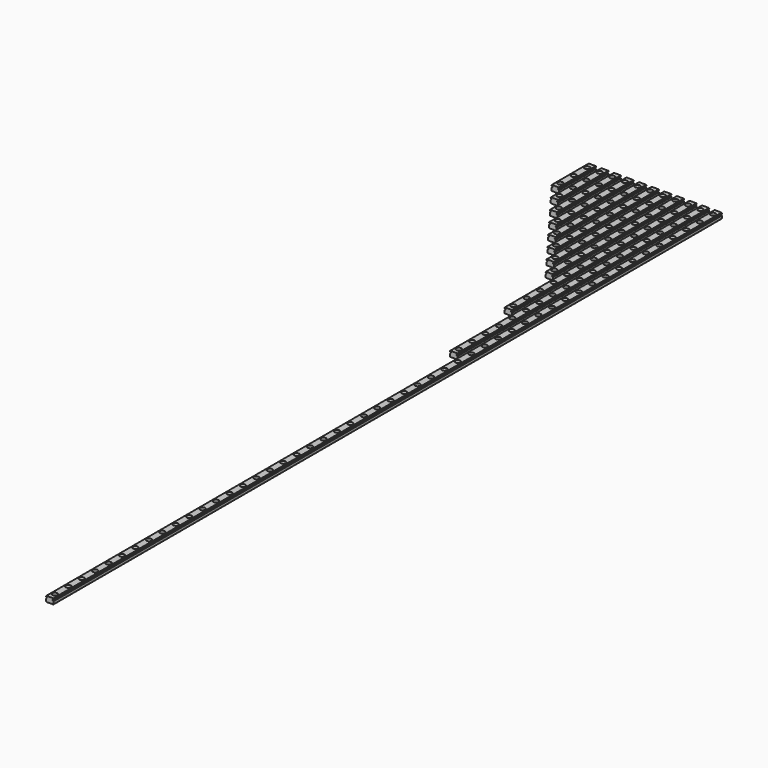
from build123d import *

# Parameters (mm, degrees)
F1_DEPTH           = 55
F2_DEPTH           = 75
F3_DEPTH           = 95
F4_DEPTH           = 115
F5_DEPTH           = 135
F6_DEPTH           = 155
F7_DEPTH           = 175
F8_DEPTH           = 195
F9_DEPTH           = 275
F10_DEPTH          = 375
F11_DEPTH          = 995
F13_D              = 3.5
F13_CBORE_D        = 6
F13_CBORE_DEPTH    = 3.5
F13_2_D            = 3.5
F13_2_CBORE_D      = 6
F13_2_CBORE_DEPTH  = 3.5
F13_3_D            = 3.5
F13_3_CBORE_D      = 6
F13_3_CBORE_DEPTH  = 3.5
F13_4_D            = 3.5
F13_4_CBORE_D      = 6
F13_4_CBORE_DEPTH  = 3.5
F13_5_D            = 3.5
F13_5_CBORE_D      = 6
F13_5_CBORE_DEPTH  = 3.5
F13_6_D            = 3.5
F13_6_CBORE_D      = 6
F13_6_CBORE_DEPTH  = 3.5
F13_7_D            = 3.5
F13_7_CBORE_D      = 6
F13_7_CBORE_DEPTH  = 3.5
F13_8_D            = 3.5
F13_8_CBORE_D      = 6
F13_8_CBORE_DEPTH  = 3.5
F13_9_D            = 3.5
F13_9_CBORE_D      = 6
F13_9_CBORE_DEPTH  = 3.5
F13_10_D           = 3.5
F13_10_CBORE_D     = 6
F13_10_CBORE_DEPTH = 3.5
F14_D              = 3.5
F14_CBORE_D        = 6
F14_CBORE_DEPTH    = 3.5


with BuildPart() as f1:
    # F0 (on Front) → F1 (new body)
    with BuildSketch(Plane.XZ):
        with BuildLine():
            Line((-4.146447, -3.25), (4.146447, -3.25))
            Line((4.146447, -3.25), (4.5, -2.896447))
            Line((4.5, -2.896447), (4.5, 0.281754))
            ThreePointArc((4.5, 0.281754), (4.10122, 0.489024), (3.833485, 0.85))
            Line((3.833485, 0.85), (3.3, 0.85))
            Line((3.3, 0.85), (3.3, 1.65))
            Line((3.3, 1.65), (3.833485, 1.65))
            ThreePointArc((3.833485, 1.65), (4.10122, 2.010976), (4.5, 2.218246))
            Line((4.5, 2.218246), (4.5, 2.896447))
            Line((4.5, 2.896447), (4.146447, 3.25))
            Line((4.146447, 3.25), (-4.146447, 3.25))
            Line((-4.146447, 3.25), (-4.5, 2.896447))
            Line((-4.5, 2.896447), (-4.5, 2.218246))
            ThreePointArc((-4.5, 2.218246), (-4.10122, 2.010976), (-3.833485, 1.65))
            Line((-3.833485, 1.65), (-3.3, 1.65))
            Line((-3.3, 1.65), (-3.3, 0.85))
            Line((-3.3, 0.85), (-3.833485, 0.85))
            ThreePointArc((-3.833485, 0.85), (-4.10122, 0.489024), (-4.5, 0.281754))
            Line((-4.5, 0.281754), (-4.5, -2.896447))
            Line((-4.5, -2.896447), (-4.146447, -3.25))
        make_face()
    extrude(amount=F1_DEPTH)

    # F13 (through all)
    with Locations(Plane.XY.offset(3.25)):
        with Locations((75, -7.5), (135, -47.5), (15, -47.5), (60, -7.5), (90, -27.5), (90, -47.5), (120, -27.5), (30, -7.5), (105, -7.5), (30, -47.5), (0, -47.5), (75, -47.5), (45, -7.5), (90, -7.5), (120, -47.5), (105, -27.5), (15, -7.5), (105, -47.5), (75, -27.5), (135, -27.5), (45, -47.5), (0, -7.5), (60, -47.5), (30, -27.5), (120, -7.5), (45, -27.5), (135, -7.5), (60, -27.5), (0, -27.5), (15, -27.5), (135, -67.5), (30, -67.5), (120, -67.5), (45, -67.5), (15, -67.5), (105, -67.5), (60, -67.5), (75, -67.5), (90, -67.5), (30, -87.5), (45, -87.5), (75, -87.5), (60, -87.5), (105, -87.5), (90, -87.5), (135, -87.5), (120, -87.5), (75, -107.5), (45, -107.5), (60, -107.5), (135, -107.5), (105, -107.5), (120, -107.5), (90, -107.5), (135, -127.5), (105, -127.5), (120, -127.5), (60, -127.5), (75, -127.5), (90, -127.5), (75, -147.5), (90, -147.5), (120, -147.5), (105, -147.5), (135, -147.5), (90, -167.5), (105, -167.5), (135, -167.5), (120, -167.5), (135, -187.5), (105, -187.5), (120, -187.5), (120, -227.5), (135, -267.5), (135, -227.5), (120, -267.5), (120, -207.5), (135, -207.5), (135, -247.5), (120, -247.5), (135, -307.5), (135, -347.5), (135, -367.5), (135, -327.5), (135, -287.5)):
            CounterBoreHole(F13_D / 2, F13_CBORE_D / 2, F13_CBORE_DEPTH)


with BuildPart() as f2:
    # F0 (on Front) → F2 (new body)
    with BuildSketch(Plane.XZ):
        with BuildLine():
            Line((10.5, 0.281754), (10.5, -2.896447))
            Line((10.5, -2.896447), (10.853553, -3.25))
            Line((10.853553, -3.25), (19.146447, -3.25))
            Line((19.146447, -3.25), (19.5, -2.896447))
            Line((19.5, -2.896447), (19.5, 0.281754))
            ThreePointArc((19.5, 0.281754), (19.10122, 0.489024), (18.833485, 0.85))
            Line((18.833485, 0.85), (18.3, 0.85))
            Line((18.3, 0.85), (18.3, 1.65))
            Line((18.3, 1.65), (18.833485, 1.65))
            ThreePointArc((18.833485, 1.65), (19.10122, 2.010976), (19.5, 2.218246))
            Line((19.5, 2.218246), (19.5, 2.896447))
            Line((19.5, 2.896447), (19.146447, 3.25))
            Line((19.146447, 3.25), (10.853553, 3.25))
            Line((10.853553, 3.25), (10.5, 2.896447))
            Line((10.5, 2.896447), (10.5, 2.218246))
            ThreePointArc((10.5, 2.218246), (10.89878, 2.010976), (11.166515, 1.65))
            Line((11.166515, 1.65), (11.7, 1.65))
            Line((11.7, 1.65), (11.7, 0.85))
            Line((11.7, 0.85), (11.166515, 0.85))
            ThreePointArc((11.166515, 0.85), (10.89878, 0.489024), (10.5, 0.281754))
        make_face()
    extrude(amount=F2_DEPTH)

    # F13#2 (through all)
    with Locations(Plane.XY.offset(3.25)):
        with Locations((75, -7.5), (135, -47.5), (15, -47.5), (60, -7.5), (90, -27.5), (90, -47.5), (120, -27.5), (30, -7.5), (105, -7.5), (30, -47.5), (0, -47.5), (75, -47.5), (45, -7.5), (90, -7.5), (120, -47.5), (105, -27.5), (15, -7.5), (105, -47.5), (75, -27.5), (135, -27.5), (45, -47.5), (0, -7.5), (60, -47.5), (30, -27.5), (120, -7.5), (45, -27.5), (135, -7.5), (60, -27.5), (0, -27.5), (15, -27.5), (135, -67.5), (30, -67.5), (120, -67.5), (45, -67.5), (15, -67.5), (105, -67.5), (60, -67.5), (75, -67.5), (90, -67.5), (30, -87.5), (45, -87.5), (75, -87.5), (60, -87.5), (105, -87.5), (90, -87.5), (135, -87.5), (120, -87.5), (75, -107.5), (45, -107.5), (60, -107.5), (135, -107.5), (105, -107.5), (120, -107.5), (90, -107.5), (135, -127.5), (105, -127.5), (120, -127.5), (60, -127.5), (75, -127.5), (90, -127.5), (75, -147.5), (90, -147.5), (120, -147.5), (105, -147.5), (135, -147.5), (90, -167.5), (105, -167.5), (135, -167.5), (120, -167.5), (135, -187.5), (105, -187.5), (120, -187.5), (120, -227.5), (135, -267.5), (135, -227.5), (120, -267.5), (120, -207.5), (135, -207.5), (135, -247.5), (120, -247.5), (135, -307.5), (135, -347.5), (135, -367.5), (135, -327.5), (135, -287.5)):
            CounterBoreHole(F13_2_D / 2, F13_2_CBORE_D / 2, F13_2_CBORE_DEPTH)


with BuildPart() as f3:
    # F0 (on Front) → F3 (new body)
    with BuildSketch(Plane.XZ):
        with BuildLine():
            Line((25.5, 0.281754), (25.5, -2.896447))
            Line((25.5, -2.896447), (25.853553, -3.25))
            Line((25.853553, -3.25), (34.146447, -3.25))
            Line((34.146447, -3.25), (34.5, -2.896447))
            Line((34.5, -2.896447), (34.5, 0.281754))
            ThreePointArc((34.5, 0.281754), (34.10122, 0.489024), (33.833485, 0.85))
            Line((33.833485, 0.85), (33.3, 0.85))
            Line((33.3, 0.85), (33.3, 1.65))
            Line((33.3, 1.65), (33.833485, 1.65))
            ThreePointArc((33.833485, 1.65), (34.10122, 2.010976), (34.5, 2.218246))
            Line((34.5, 2.218246), (34.5, 2.896447))
            Line((34.5, 2.896447), (34.146447, 3.25))
            Line((34.146447, 3.25), (25.853553, 3.25))
            Line((25.853553, 3.25), (25.5, 2.896447))
            Line((25.5, 2.896447), (25.5, 2.218246))
            ThreePointArc((25.5, 2.218246), (25.89878, 2.010976), (26.166515, 1.65))
            Line((26.166515, 1.65), (26.7, 1.65))
            Line((26.7, 1.65), (26.7, 0.85))
            Line((26.7, 0.85), (26.166515, 0.85))
            ThreePointArc((26.166515, 0.85), (25.89878, 0.489024), (25.5, 0.281754))
        make_face()
    extrude(amount=F3_DEPTH)

    # F13#3 (through all)
    with Locations(Plane.XY.offset(3.25)):
        with Locations((75, -7.5), (135, -47.5), (15, -47.5), (60, -7.5), (90, -27.5), (90, -47.5), (120, -27.5), (30, -7.5), (105, -7.5), (30, -47.5), (0, -47.5), (75, -47.5), (45, -7.5), (90, -7.5), (120, -47.5), (105, -27.5), (15, -7.5), (105, -47.5), (75, -27.5), (135, -27.5), (45, -47.5), (0, -7.5), (60, -47.5), (30, -27.5), (120, -7.5), (45, -27.5), (135, -7.5), (60, -27.5), (0, -27.5), (15, -27.5), (135, -67.5), (30, -67.5), (120, -67.5), (45, -67.5), (15, -67.5), (105, -67.5), (60, -67.5), (75, -67.5), (90, -67.5), (30, -87.5), (45, -87.5), (75, -87.5), (60, -87.5), (105, -87.5), (90, -87.5), (135, -87.5), (120, -87.5), (75, -107.5), (45, -107.5), (60, -107.5), (135, -107.5), (105, -107.5), (120, -107.5), (90, -107.5), (135, -127.5), (105, -127.5), (120, -127.5), (60, -127.5), (75, -127.5), (90, -127.5), (75, -147.5), (90, -147.5), (120, -147.5), (105, -147.5), (135, -147.5), (90, -167.5), (105, -167.5), (135, -167.5), (120, -167.5), (135, -187.5), (105, -187.5), (120, -187.5), (120, -227.5), (135, -267.5), (135, -227.5), (120, -267.5), (120, -207.5), (135, -207.5), (135, -247.5), (120, -247.5), (135, -307.5), (135, -347.5), (135, -367.5), (135, -327.5), (135, -287.5)):
            CounterBoreHole(F13_3_D / 2, F13_3_CBORE_D / 2, F13_3_CBORE_DEPTH)


with BuildPart() as f4:
    # F0 (on Front) → F4 (new body)
    with BuildSketch(Plane.XZ):
        with BuildLine():
            Line((40.5, 0.281754), (40.5, -2.896447))
            Line((40.5, -2.896447), (40.853553, -3.25))
            Line((40.853553, -3.25), (49.146447, -3.25))
            Line((49.146447, -3.25), (49.5, -2.896447))
            Line((49.5, -2.896447), (49.5, 0.281754))
            ThreePointArc((49.5, 0.281754), (49.10122, 0.489024), (48.833485, 0.85))
            Line((48.833485, 0.85), (48.3, 0.85))
            Line((48.3, 0.85), (48.3, 1.65))
            Line((48.3, 1.65), (48.833485, 1.65))
            ThreePointArc((48.833485, 1.65), (49.10122, 2.010976), (49.5, 2.218246))
            Line((49.5, 2.218246), (49.5, 2.896447))
            Line((49.5, 2.896447), (49.146447, 3.25))
            Line((49.146447, 3.25), (40.853553, 3.25))
            Line((40.853553, 3.25), (40.5, 2.896447))
            Line((40.5, 2.896447), (40.5, 2.218246))
            ThreePointArc((40.5, 2.218246), (40.89878, 2.010976), (41.166515, 1.65))
            Line((41.166515, 1.65), (41.7, 1.65))
            Line((41.7, 1.65), (41.7, 0.85))
            Line((41.7, 0.85), (41.166515, 0.85))
            ThreePointArc((41.166515, 0.85), (40.89878, 0.489024), (40.5, 0.281754))
        make_face()
    extrude(amount=F4_DEPTH)

    # F13#4 (through all)
    with Locations(Plane.XY.offset(3.25)):
        with Locations((75, -7.5), (135, -47.5), (15, -47.5), (60, -7.5), (90, -27.5), (90, -47.5), (120, -27.5), (30, -7.5), (105, -7.5), (30, -47.5), (0, -47.5), (75, -47.5), (45, -7.5), (90, -7.5), (120, -47.5), (105, -27.5), (15, -7.5), (105, -47.5), (75, -27.5), (135, -27.5), (45, -47.5), (0, -7.5), (60, -47.5), (30, -27.5), (120, -7.5), (45, -27.5), (135, -7.5), (60, -27.5), (0, -27.5), (15, -27.5), (135, -67.5), (30, -67.5), (120, -67.5), (45, -67.5), (15, -67.5), (105, -67.5), (60, -67.5), (75, -67.5), (90, -67.5), (30, -87.5), (45, -87.5), (75, -87.5), (60, -87.5), (105, -87.5), (90, -87.5), (135, -87.5), (120, -87.5), (75, -107.5), (45, -107.5), (60, -107.5), (135, -107.5), (105, -107.5), (120, -107.5), (90, -107.5), (135, -127.5), (105, -127.5), (120, -127.5), (60, -127.5), (75, -127.5), (90, -127.5), (75, -147.5), (90, -147.5), (120, -147.5), (105, -147.5), (135, -147.5), (90, -167.5), (105, -167.5), (135, -167.5), (120, -167.5), (135, -187.5), (105, -187.5), (120, -187.5), (120, -227.5), (135, -267.5), (135, -227.5), (120, -267.5), (120, -207.5), (135, -207.5), (135, -247.5), (120, -247.5), (135, -307.5), (135, -347.5), (135, -367.5), (135, -327.5), (135, -287.5)):
            CounterBoreHole(F13_4_D / 2, F13_4_CBORE_D / 2, F13_4_CBORE_DEPTH)


with BuildPart() as f5:
    # F0 (on Front) → F5 (new body)
    with BuildSketch(Plane.XZ):
        with BuildLine():
            Line((55.5, 0.281754), (55.5, -2.896447))
            Line((55.5, -2.896447), (55.853553, -3.25))
            Line((55.853553, -3.25), (64.146447, -3.25))
            Line((64.146447, -3.25), (64.5, -2.896447))
            Line((64.5, -2.896447), (64.5, 0.281754))
            ThreePointArc((64.5, 0.281754), (64.10122, 0.489024), (63.833485, 0.85))
            Line((63.833485, 0.85), (63.3, 0.85))
            Line((63.3, 0.85), (63.3, 1.65))
            Line((63.3, 1.65), (63.833485, 1.65))
            ThreePointArc((63.833485, 1.65), (64.10122, 2.010976), (64.5, 2.218246))
            Line((64.5, 2.218246), (64.5, 2.896447))
            Line((64.5, 2.896447), (64.146447, 3.25))
            Line((64.146447, 3.25), (55.853553, 3.25))
            Line((55.853553, 3.25), (55.5, 2.896447))
            Line((55.5, 2.896447), (55.5, 2.218246))
            ThreePointArc((55.5, 2.218246), (55.89878, 2.010976), (56.166515, 1.65))
            Line((56.166515, 1.65), (56.7, 1.65))
            Line((56.7, 1.65), (56.7, 0.85))
            Line((56.7, 0.85), (56.166515, 0.85))
            ThreePointArc((56.166515, 0.85), (55.89878, 0.489024), (55.5, 0.281754))
        make_face()
    extrude(amount=F5_DEPTH)

    # F13#5 (through all)
    with Locations(Plane.XY.offset(3.25)):
        with Locations((75, -7.5), (135, -47.5), (15, -47.5), (60, -7.5), (90, -27.5), (90, -47.5), (120, -27.5), (30, -7.5), (105, -7.5), (30, -47.5), (0, -47.5), (75, -47.5), (45, -7.5), (90, -7.5), (120, -47.5), (105, -27.5), (15, -7.5), (105, -47.5), (75, -27.5), (135, -27.5), (45, -47.5), (0, -7.5), (60, -47.5), (30, -27.5), (120, -7.5), (45, -27.5), (135, -7.5), (60, -27.5), (0, -27.5), (15, -27.5), (135, -67.5), (30, -67.5), (120, -67.5), (45, -67.5), (15, -67.5), (105, -67.5), (60, -67.5), (75, -67.5), (90, -67.5), (30, -87.5), (45, -87.5), (75, -87.5), (60, -87.5), (105, -87.5), (90, -87.5), (135, -87.5), (120, -87.5), (75, -107.5), (45, -107.5), (60, -107.5), (135, -107.5), (105, -107.5), (120, -107.5), (90, -107.5), (135, -127.5), (105, -127.5), (120, -127.5), (60, -127.5), (75, -127.5), (90, -127.5), (75, -147.5), (90, -147.5), (120, -147.5), (105, -147.5), (135, -147.5), (90, -167.5), (105, -167.5), (135, -167.5), (120, -167.5), (135, -187.5), (105, -187.5), (120, -187.5), (120, -227.5), (135, -267.5), (135, -227.5), (120, -267.5), (120, -207.5), (135, -207.5), (135, -247.5), (120, -247.5), (135, -307.5), (135, -347.5), (135, -367.5), (135, -327.5), (135, -287.5)):
            CounterBoreHole(F13_5_D / 2, F13_5_CBORE_D / 2, F13_5_CBORE_DEPTH)


with BuildPart() as f6:
    # F0 (on Front) → F6 (new body)
    with BuildSketch(Plane.XZ):
        with BuildLine():
            Line((70.5, 0.281754), (70.5, -2.896447))
            Line((70.5, -2.896447), (70.853553, -3.25))
            Line((70.853553, -3.25), (79.146447, -3.25))
            Line((79.146447, -3.25), (79.5, -2.896447))
            Line((79.5, -2.896447), (79.5, 0.281754))
            ThreePointArc((79.5, 0.281754), (79.10122, 0.489024), (78.833485, 0.85))
            Line((78.833485, 0.85), (78.3, 0.85))
            Line((78.3, 0.85), (78.3, 1.65))
            Line((78.3, 1.65), (78.833485, 1.65))
            ThreePointArc((78.833485, 1.65), (79.10122, 2.010976), (79.5, 2.218246))
            Line((79.5, 2.218246), (79.5, 2.896447))
            Line((79.5, 2.896447), (79.146447, 3.25))
            Line((79.146447, 3.25), (70.853553, 3.25))
            Line((70.853553, 3.25), (70.5, 2.896447))
            Line((70.5, 2.896447), (70.5, 2.218246))
            ThreePointArc((70.5, 2.218246), (70.89878, 2.010976), (71.166515, 1.65))
            Line((71.166515, 1.65), (71.7, 1.65))
            Line((71.7, 1.65), (71.7, 0.85))
            Line((71.7, 0.85), (71.166515, 0.85))
            ThreePointArc((71.166515, 0.85), (70.89878, 0.489024), (70.5, 0.281754))
        make_face()
    extrude(amount=F6_DEPTH)

    # F13#6 (through all)
    with Locations(Plane.XY.offset(3.25)):
        with Locations((75, -7.5), (135, -47.5), (15, -47.5), (60, -7.5), (90, -27.5), (90, -47.5), (120, -27.5), (30, -7.5), (105, -7.5), (30, -47.5), (0, -47.5), (75, -47.5), (45, -7.5), (90, -7.5), (120, -47.5), (105, -27.5), (15, -7.5), (105, -47.5), (75, -27.5), (135, -27.5), (45, -47.5), (0, -7.5), (60, -47.5), (30, -27.5), (120, -7.5), (45, -27.5), (135, -7.5), (60, -27.5), (0, -27.5), (15, -27.5), (135, -67.5), (30, -67.5), (120, -67.5), (45, -67.5), (15, -67.5), (105, -67.5), (60, -67.5), (75, -67.5), (90, -67.5), (30, -87.5), (45, -87.5), (75, -87.5), (60, -87.5), (105, -87.5), (90, -87.5), (135, -87.5), (120, -87.5), (75, -107.5), (45, -107.5), (60, -107.5), (135, -107.5), (105, -107.5), (120, -107.5), (90, -107.5), (135, -127.5), (105, -127.5), (120, -127.5), (60, -127.5), (75, -127.5), (90, -127.5), (75, -147.5), (90, -147.5), (120, -147.5), (105, -147.5), (135, -147.5), (90, -167.5), (105, -167.5), (135, -167.5), (120, -167.5), (135, -187.5), (105, -187.5), (120, -187.5), (120, -227.5), (135, -267.5), (135, -227.5), (120, -267.5), (120, -207.5), (135, -207.5), (135, -247.5), (120, -247.5), (135, -307.5), (135, -347.5), (135, -367.5), (135, -327.5), (135, -287.5)):
            CounterBoreHole(F13_6_D / 2, F13_6_CBORE_D / 2, F13_6_CBORE_DEPTH)


with BuildPart() as f7:
    # F0 (on Front) → F7 (new body)
    with BuildSketch(Plane.XZ):
        with BuildLine():
            Line((85.5, 0.281754), (85.5, -2.896447))
            Line((85.5, -2.896447), (85.853553, -3.25))
            Line((85.853553, -3.25), (94.146447, -3.25))
            Line((94.146447, -3.25), (94.5, -2.896447))
            Line((94.5, -2.896447), (94.5, 0.281754))
            ThreePointArc((94.5, 0.281754), (94.10122, 0.489024), (93.833485, 0.85))
            Line((93.833485, 0.85), (93.3, 0.85))
            Line((93.3, 0.85), (93.3, 1.65))
            Line((93.3, 1.65), (93.833485, 1.65))
            ThreePointArc((93.833485, 1.65), (94.10122, 2.010976), (94.5, 2.218246))
            Line((94.5, 2.218246), (94.5, 2.896447))
            Line((94.5, 2.896447), (94.146447, 3.25))
            Line((94.146447, 3.25), (85.853553, 3.25))
            Line((85.853553, 3.25), (85.5, 2.896447))
            Line((85.5, 2.896447), (85.5, 2.218246))
            ThreePointArc((85.5, 2.218246), (85.89878, 2.010976), (86.166515, 1.65))
            Line((86.166515, 1.65), (86.7, 1.65))
            Line((86.7, 1.65), (86.7, 0.85))
            Line((86.7, 0.85), (86.166515, 0.85))
            ThreePointArc((86.166515, 0.85), (85.89878, 0.489024), (85.5, 0.281754))
        make_face()
    extrude(amount=F7_DEPTH)

    # F13#7 (through all)
    with Locations(Plane.XY.offset(3.25)):
        with Locations((75, -7.5), (135, -47.5), (15, -47.5), (60, -7.5), (90, -27.5), (90, -47.5), (120, -27.5), (30, -7.5), (105, -7.5), (30, -47.5), (0, -47.5), (75, -47.5), (45, -7.5), (90, -7.5), (120, -47.5), (105, -27.5), (15, -7.5), (105, -47.5), (75, -27.5), (135, -27.5), (45, -47.5), (0, -7.5), (60, -47.5), (30, -27.5), (120, -7.5), (45, -27.5), (135, -7.5), (60, -27.5), (0, -27.5), (15, -27.5), (135, -67.5), (30, -67.5), (120, -67.5), (45, -67.5), (15, -67.5), (105, -67.5), (60, -67.5), (75, -67.5), (90, -67.5), (30, -87.5), (45, -87.5), (75, -87.5), (60, -87.5), (105, -87.5), (90, -87.5), (135, -87.5), (120, -87.5), (75, -107.5), (45, -107.5), (60, -107.5), (135, -107.5), (105, -107.5), (120, -107.5), (90, -107.5), (135, -127.5), (105, -127.5), (120, -127.5), (60, -127.5), (75, -127.5), (90, -127.5), (75, -147.5), (90, -147.5), (120, -147.5), (105, -147.5), (135, -147.5), (90, -167.5), (105, -167.5), (135, -167.5), (120, -167.5), (135, -187.5), (105, -187.5), (120, -187.5), (120, -227.5), (135, -267.5), (135, -227.5), (120, -267.5), (120, -207.5), (135, -207.5), (135, -247.5), (120, -247.5), (135, -307.5), (135, -347.5), (135, -367.5), (135, -327.5), (135, -287.5)):
            CounterBoreHole(F13_7_D / 2, F13_7_CBORE_D / 2, F13_7_CBORE_DEPTH)


with BuildPart() as f8:
    # F0 (on Front) → F8 (new body)
    with BuildSketch(Plane.XZ):
        with BuildLine():
            Line((100.5, 0.281754), (100.5, -2.896447))
            Line((100.5, -2.896447), (100.853553, -3.25))
            Line((100.853553, -3.25), (109.146447, -3.25))
            Line((109.146447, -3.25), (109.5, -2.896447))
            Line((109.5, -2.896447), (109.5, 0.281754))
            ThreePointArc((109.5, 0.281754), (109.10122, 0.489024), (108.833485, 0.85))
            Line((108.833485, 0.85), (108.3, 0.85))
            Line((108.3, 0.85), (108.3, 1.65))
            Line((108.3, 1.65), (108.833485, 1.65))
            ThreePointArc((108.833485, 1.65), (109.10122, 2.010976), (109.5, 2.218246))
            Line((109.5, 2.218246), (109.5, 2.896447))
            Line((109.5, 2.896447), (109.146447, 3.25))
            Line((109.146447, 3.25), (100.853553, 3.25))
            Line((100.853553, 3.25), (100.5, 2.896447))
            Line((100.5, 2.896447), (100.5, 2.218246))
            ThreePointArc((100.5, 2.218246), (100.89878, 2.010976), (101.166515, 1.65))
            Line((101.166515, 1.65), (101.7, 1.65))
            Line((101.7, 1.65), (101.7, 0.85))
            Line((101.7, 0.85), (101.166515, 0.85))
            ThreePointArc((101.166515, 0.85), (100.89878, 0.489024), (100.5, 0.281754))
        make_face()
    extrude(amount=F8_DEPTH)

    # F13#8 (through all)
    with Locations(Plane.XY.offset(3.25)):
        with Locations((75, -7.5), (135, -47.5), (15, -47.5), (60, -7.5), (90, -27.5), (90, -47.5), (120, -27.5), (30, -7.5), (105, -7.5), (30, -47.5), (0, -47.5), (75, -47.5), (45, -7.5), (90, -7.5), (120, -47.5), (105, -27.5), (15, -7.5), (105, -47.5), (75, -27.5), (135, -27.5), (45, -47.5), (0, -7.5), (60, -47.5), (30, -27.5), (120, -7.5), (45, -27.5), (135, -7.5), (60, -27.5), (0, -27.5), (15, -27.5), (135, -67.5), (30, -67.5), (120, -67.5), (45, -67.5), (15, -67.5), (105, -67.5), (60, -67.5), (75, -67.5), (90, -67.5), (30, -87.5), (45, -87.5), (75, -87.5), (60, -87.5), (105, -87.5), (90, -87.5), (135, -87.5), (120, -87.5), (75, -107.5), (45, -107.5), (60, -107.5), (135, -107.5), (105, -107.5), (120, -107.5), (90, -107.5), (135, -127.5), (105, -127.5), (120, -127.5), (60, -127.5), (75, -127.5), (90, -127.5), (75, -147.5), (90, -147.5), (120, -147.5), (105, -147.5), (135, -147.5), (90, -167.5), (105, -167.5), (135, -167.5), (120, -167.5), (135, -187.5), (105, -187.5), (120, -187.5), (120, -227.5), (135, -267.5), (135, -227.5), (120, -267.5), (120, -207.5), (135, -207.5), (135, -247.5), (120, -247.5), (135, -307.5), (135, -347.5), (135, -367.5), (135, -327.5), (135, -287.5)):
            CounterBoreHole(F13_8_D / 2, F13_8_CBORE_D / 2, F13_8_CBORE_DEPTH)


with BuildPart() as f9:
    # F0 (on Front) → F9 (new body)
    with BuildSketch(Plane.XZ):
        with BuildLine():
            Line((115.5, 0.281754), (115.5, -2.896447))
            Line((115.5, -2.896447), (115.853553, -3.25))
            Line((115.853553, -3.25), (124.146447, -3.25))
            Line((124.146447, -3.25), (124.5, -2.896447))
            Line((124.5, -2.896447), (124.5, 0.281754))
            ThreePointArc((124.5, 0.281754), (124.10122, 0.489024), (123.833485, 0.85))
            Line((123.833485, 0.85), (123.3, 0.85))
            Line((123.3, 0.85), (123.3, 1.65))
            Line((123.3, 1.65), (123.833485, 1.65))
            ThreePointArc((123.833485, 1.65), (124.10122, 2.010976), (124.5, 2.218246))
            Line((124.5, 2.218246), (124.5, 2.896447))
            Line((124.5, 2.896447), (124.146447, 3.25))
            Line((124.146447, 3.25), (115.853553, 3.25))
            Line((115.853553, 3.25), (115.5, 2.896447))
            Line((115.5, 2.896447), (115.5, 2.218246))
            ThreePointArc((115.5, 2.218246), (115.89878, 2.010976), (116.166515, 1.65))
            Line((116.166515, 1.65), (116.7, 1.65))
            Line((116.7, 1.65), (116.7, 0.85))
            Line((116.7, 0.85), (116.166515, 0.85))
            ThreePointArc((116.166515, 0.85), (115.89878, 0.489024), (115.5, 0.281754))
        make_face()
    extrude(amount=F9_DEPTH)

    # F13#9 (through all)
    with Locations(Plane.XY.offset(3.25)):
        with Locations((75, -7.5), (135, -47.5), (15, -47.5), (60, -7.5), (90, -27.5), (90, -47.5), (120, -27.5), (30, -7.5), (105, -7.5), (30, -47.5), (0, -47.5), (75, -47.5), (45, -7.5), (90, -7.5), (120, -47.5), (105, -27.5), (15, -7.5), (105, -47.5), (75, -27.5), (135, -27.5), (45, -47.5), (0, -7.5), (60, -47.5), (30, -27.5), (120, -7.5), (45, -27.5), (135, -7.5), (60, -27.5), (0, -27.5), (15, -27.5), (135, -67.5), (30, -67.5), (120, -67.5), (45, -67.5), (15, -67.5), (105, -67.5), (60, -67.5), (75, -67.5), (90, -67.5), (30, -87.5), (45, -87.5), (75, -87.5), (60, -87.5), (105, -87.5), (90, -87.5), (135, -87.5), (120, -87.5), (75, -107.5), (45, -107.5), (60, -107.5), (135, -107.5), (105, -107.5), (120, -107.5), (90, -107.5), (135, -127.5), (105, -127.5), (120, -127.5), (60, -127.5), (75, -127.5), (90, -127.5), (75, -147.5), (90, -147.5), (120, -147.5), (105, -147.5), (135, -147.5), (90, -167.5), (105, -167.5), (135, -167.5), (120, -167.5), (135, -187.5), (105, -187.5), (120, -187.5), (120, -227.5), (135, -267.5), (135, -227.5), (120, -267.5), (120, -207.5), (135, -207.5), (135, -247.5), (120, -247.5), (135, -307.5), (135, -347.5), (135, -367.5), (135, -327.5), (135, -287.5)):
            CounterBoreHole(F13_9_D / 2, F13_9_CBORE_D / 2, F13_9_CBORE_DEPTH)


with BuildPart() as f10:
    # F0 (on Front) → F10 (new body)
    with BuildSketch(Plane.XZ):
        with BuildLine():
            Line((130.5, 0.281754), (130.5, -2.896447))
            Line((130.5, -2.896447), (130.853553, -3.25))
            Line((130.853553, -3.25), (139.146447, -3.25))
            Line((139.146447, -3.25), (139.5, -2.896447))
            Line((139.5, -2.896447), (139.5, 0.281754))
            ThreePointArc((139.5, 0.281754), (139.10122, 0.489024), (138.833485, 0.85))
            Line((138.833485, 0.85), (138.3, 0.85))
            Line((138.3, 0.85), (138.3, 1.65))
            Line((138.3, 1.65), (138.833485, 1.65))
            ThreePointArc((138.833485, 1.65), (139.10122, 2.010976), (139.5, 2.218246))
            Line((139.5, 2.218246), (139.5, 2.896447))
            Line((139.5, 2.896447), (139.146447, 3.25))
            Line((139.146447, 3.25), (130.853553, 3.25))
            Line((130.853553, 3.25), (130.5, 2.896447))
            Line((130.5, 2.896447), (130.5, 2.218246))
            ThreePointArc((130.5, 2.218246), (130.89878, 2.010976), (131.166515, 1.65))
            Line((131.166515, 1.65), (131.7, 1.65))
            Line((131.7, 1.65), (131.7, 0.85))
            Line((131.7, 0.85), (131.166515, 0.85))
            ThreePointArc((131.166515, 0.85), (130.89878, 0.489024), (130.5, 0.281754))
        make_face()
    extrude(amount=F10_DEPTH)

    # F13#10 (through all)
    with Locations(Plane.XY.offset(3.25)):
        with Locations((75, -7.5), (135, -47.5), (15, -47.5), (60, -7.5), (90, -27.5), (90, -47.5), (120, -27.5), (30, -7.5), (105, -7.5), (30, -47.5), (0, -47.5), (75, -47.5), (45, -7.5), (90, -7.5), (120, -47.5), (105, -27.5), (15, -7.5), (105, -47.5), (75, -27.5), (135, -27.5), (45, -47.5), (0, -7.5), (60, -47.5), (30, -27.5), (120, -7.5), (45, -27.5), (135, -7.5), (60, -27.5), (0, -27.5), (15, -27.5), (135, -67.5), (30, -67.5), (120, -67.5), (45, -67.5), (15, -67.5), (105, -67.5), (60, -67.5), (75, -67.5), (90, -67.5), (30, -87.5), (45, -87.5), (75, -87.5), (60, -87.5), (105, -87.5), (90, -87.5), (135, -87.5), (120, -87.5), (75, -107.5), (45, -107.5), (60, -107.5), (135, -107.5), (105, -107.5), (120, -107.5), (90, -107.5), (135, -127.5), (105, -127.5), (120, -127.5), (60, -127.5), (75, -127.5), (90, -127.5), (75, -147.5), (90, -147.5), (120, -147.5), (105, -147.5), (135, -147.5), (90, -167.5), (105, -167.5), (135, -167.5), (120, -167.5), (135, -187.5), (105, -187.5), (120, -187.5), (120, -227.5), (135, -267.5), (135, -227.5), (120, -267.5), (120, -207.5), (135, -207.5), (135, -247.5), (120, -247.5), (135, -307.5), (135, -347.5), (135, -367.5), (135, -327.5), (135, -287.5)):
            CounterBoreHole(F13_10_D / 2, F13_10_CBORE_D / 2, F13_10_CBORE_DEPTH)


with BuildPart() as f11:
    # F0 (on Front) → F11 (new body)
    with BuildSketch(Plane.XZ):
        with BuildLine():
            Line((145.5, 0.281754), (145.5, -2.896447))
            Line((145.5, -2.896447), (145.853553, -3.25))
            Line((145.853553, -3.25), (154.146447, -3.25))
            Line((154.146447, -3.25), (154.5, -2.896447))
            Line((154.5, -2.896447), (154.5, 0.281754))
            ThreePointArc((154.5, 0.281754), (154.10122, 0.489024), (153.833485, 0.85))
            Line((153.833485, 0.85), (153.3, 0.85))
            Line((153.3, 0.85), (153.3, 1.65))
            Line((153.3, 1.65), (153.833485, 1.65))
            ThreePointArc((153.833485, 1.65), (154.10122, 2.010976), (154.5, 2.218246))
            Line((154.5, 2.218246), (154.5, 2.896447))
            Line((154.5, 2.896447), (154.146447, 3.25))
            Line((154.146447, 3.25), (145.853553, 3.25))
            Line((145.853553, 3.25), (145.5, 2.896447))
            Line((145.5, 2.896447), (145.5, 2.218246))
            ThreePointArc((145.5, 2.218246), (145.89878, 2.010976), (146.166515, 1.65))
            Line((146.166515, 1.65), (146.7, 1.65))
            Line((146.7, 1.65), (146.7, 0.85))
            Line((146.7, 0.85), (146.166515, 0.85))
            ThreePointArc((146.166515, 0.85), (145.89878, 0.489024), (145.5, 0.281754))
        make_face()
    extrude(amount=F11_DEPTH)

    # F14 (through all)
    with Locations(Plane.XY.offset(3.25)):
        with Locations((150, -7.5), (150, -487.5), (150, -247.5), (150, -327.5), (150, -667.5), (150, -647.5), (150, -727.5), (150, -567.5), (150, -747.5), (150, -87.5), (150, -167.5), (150, -407.5), (150, -107.5), (150, -27.5), (150, -427.5), (150, -347.5), (150, -267.5), (150, -187.5), (150, -587.5), (150, -507.5), (150, -127.5), (150, -47.5), (150, -447.5), (150, -367.5), (150, -287.5), (150, -207.5), (150, -607.5), (150, -527.5), (150, -767.5), (150, -687.5), (150, -307.5), (150, -227.5), (150, -147.5), (150, -67.5), (150, -627.5), (150, -547.5), (150, -467.5), (150, -387.5), (150, -787.5), (150, -707.5), (150, -847.5), (150, -867.5), (150, -967.5), (150, -887.5), (150, -827.5), (150, -987.5), (150, -907.5), (150, -927.5), (150, -947.5), (150, -807.5)):
            CounterBoreHole(F14_D / 2, F14_CBORE_D / 2, F14_CBORE_DEPTH)


solid = Compound([f1.part, f2.part, f3.part, f4.part, f5.part, f6.part, f7.part, f8.part, f9.part, f10.part, f11.part])
